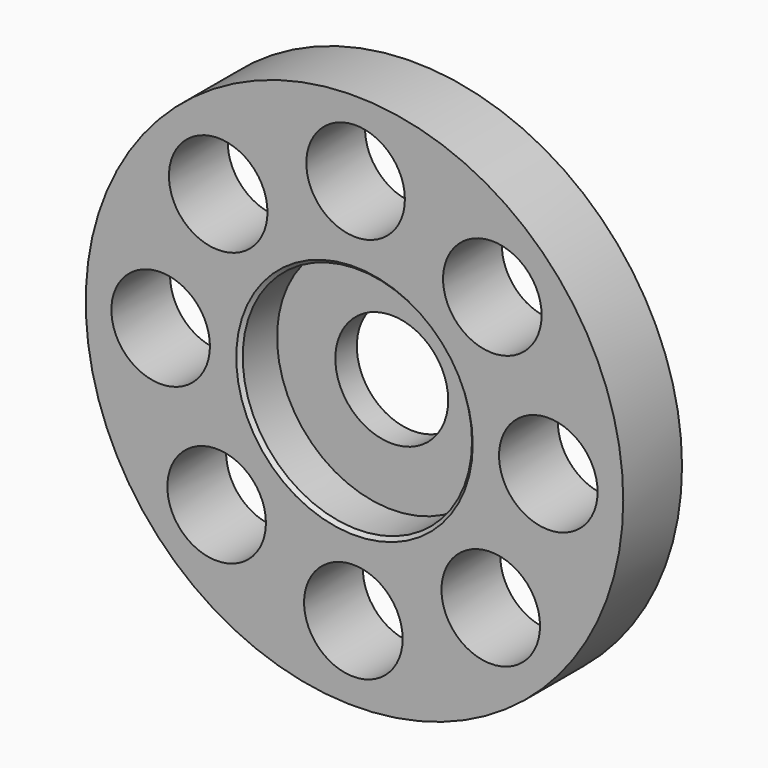
from build123d import *

# Parameters (mm, degrees)
SKETCH001_R  = 5.5
POCKET_DEPTH = 8.201
CHAMFER_SIZE = 0.4


with BuildPart() as part:
    # Sketch → Revolution (revolve)
    with BuildSketch(Plane.XY):
        Polygon((30, 0), (30, 8.2), (6.3, 8.2), (6.3, 5.2), (12.8, 5.2), (12.8, 0), align=None)
    revolve(axis=Axis((0, 0, 0), (0, 1, 0)))

    # Sketch001 (on Face6 of Revolution) → Pocket (cut, through all)
    with BuildSketch(Plane.XZ):
        with Locations((0.124373, 21.635731)):
            Circle(SKETCH001_R)
        with Locations((15.386717, 15.210827)):
            Circle(SKETCH001_R)
        with Locations((21.635731, -0.124373)):
            Circle(SKETCH001_R)
        with Locations((15.210827, -15.386717)):
            Circle(SKETCH001_R)
        with Locations((-0.124373, -21.635731)):
            Circle(SKETCH001_R)
        with Locations((-15.386717, -15.210827)):
            Circle(SKETCH001_R)
        with Locations((-21.635731, 0.124373)):
            Circle(SKETCH001_R)
        with Locations((-15.210827, 15.386717)):
            Circle(SKETCH001_R)
    extrude(amount=-POCKET_DEPTH, mode=Mode.SUBTRACT)

    # Chamfer
    chamfer_edges = [part.edges().sort_by_distance(p)[0] for p in [
        (-12.8, 0, 0),
    ]]
    chamfer(chamfer_edges, length=CHAMFER_SIZE)


solid = part.part
